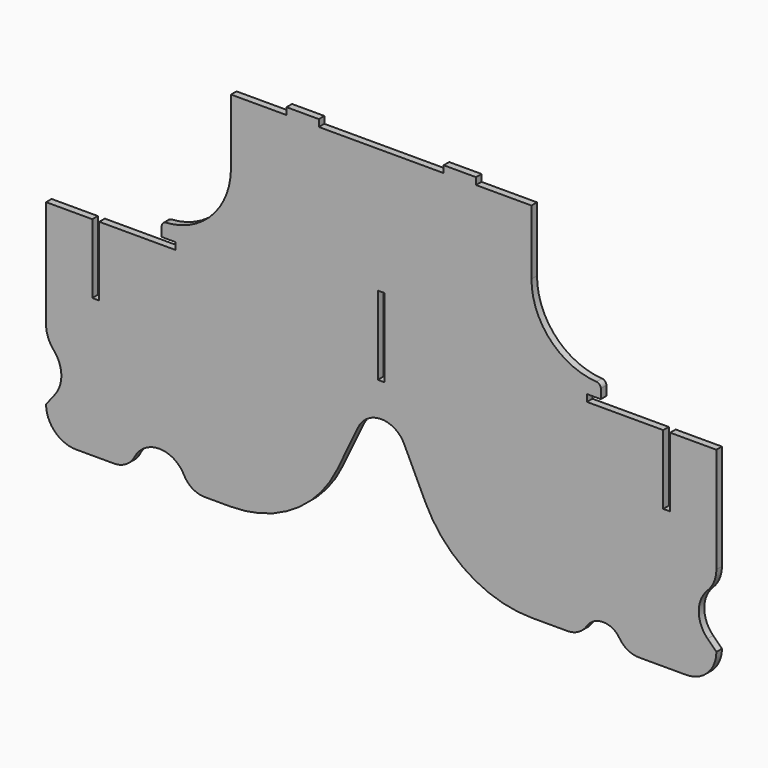
from build123d import *

# Parameters (mm, degrees)
F1_DEPTH = 15


with BuildPart() as f1:
    # F0 (on Front) → F1 (new body)
    with BuildSketch(Plane.XZ):
        with BuildLine():
            Line((-205, 392.5), (-325, 392.5))
            Line((-325, 392.5), (-325, 312.5))
            Line((-325, 312.5), (-325, 257.5))
            Line((-325, 257.5), (-325, 252.5))
            ThreePointArc((-325, 252.5), (-365.669652, 149.80202), (-465.625, 102.793255))
            ThreePointArc((-465.625, 102.793255), (-472.28869, 99.659338), (-475, 92.812806))
            Line((-475, 92.812806), (-475, 72.5))
            Line((-475, 72.5), (-445, 72.5))
            Line((-445, 72.5), (-445, 57.5))
            Line((-445, 57.5), (-610, 57.5))
            Line((-610, 57.5), (-610, -92.5))
            Line((-610, -92.5), (-625, -92.5))
            Line((-625, -92.5), (-625, 57.5))
            Line((-625, 57.5), (-725, 57.5))
            Line((-725, 57.5), (-725, -175.392073))
            ThreePointArc((-725, -175.392073), (-721.537941, -196.322478), (-711.520559, -215.023273))
            Line((-711.520559, -215.023273), (-705.485538, -222.868801))
            ThreePointArc((-705.485538, -222.868801), (-692.006097, -262.5), (-705.485538, -302.131199))
            Line((-705.485538, -302.131199), (-725, -327.5))
            ThreePointArc((-725, -327.5), (-705.961941, -373.461941), (-660, -392.5))
            Line((-660, -392.5), (-577.97959, -392.5))
            ThreePointArc((-577.97959, -392.5), (-551.867941, -385.140143), (-533.443413, -365.227273))
            ThreePointArc((-533.443413, -365.227273), (-480, -332.5), (-426.556587, -365.227273))
            ThreePointArc((-426.556587, -365.227273), (-408.132059, -385.140143), (-382.02041, -392.5))
            Line((-382.02041, -392.5), (-325.706517, -392.5))
            ThreePointArc((-325.706517, -392.5), (-189.747688, -353.231771), (-95.66229, -247.521152))
            Line((-95.66229, -247.521152), (-49.617382, -151.245435))
            ThreePointArc((-49.617382, -151.245435), (-29.324453, -128.445106), (0, -119.975488))
            ThreePointArc((0, -119.975488), (29.324453, -128.445106), (49.617382, -151.245435))
            Line((49.617382, -151.245435), (95.66229, -247.521152))
            ThreePointArc((95.66229, -247.521152), (189.747688, -353.231771), (325.706517, -392.5))
            Line((325.706517, -392.5), (402.540333, -392.5))
            ThreePointArc((402.540333, -392.5), (426.458785, -386.407946), (444.548736, -369.616307))
            ThreePointArc((444.548736, -369.616307), (480, -350.304555), (515.451264, -369.616307))
            ThreePointArc((515.451264, -369.616307), (533.541215, -386.407946), (557.459667, -392.5))
            Line((557.459667, -392.5), (660, -392.5))
            ThreePointArc((660, -392.5), (705.961941, -373.461941), (725, -327.5))
            Line((725, -327.5), (705.961941, -308.461941))
            ThreePointArc((705.961941, -308.461941), (686.923882, -262.5), (705.961941, -216.538059))
            ThreePointArc((705.961941, -216.538059), (720.05217, -195.450542), (725, -170.576118))
            Line((725, -170.576118), (725, 57.5))
            Line((725, 57.5), (625, 57.5))
            Line((625, 57.5), (625, -92.5))
            Line((625, -92.5), (610, -92.5))
            Line((610, -92.5), (610, 57.5))
            Line((610, 57.5), (445, 57.5))
            Line((445, 57.5), (445, 72.5))
            Line((445, 72.5), (475, 72.5))
            Line((475, 72.5), (475, 92.812806))
            ThreePointArc((475, 92.812806), (472.28869, 99.659338), (465.625, 102.793255))
            ThreePointArc((465.625, 102.793255), (365.669652, 149.80202), (325, 252.5))
            Line((325, 252.5), (325, 257.5))
            Line((325, 257.5), (325, 312.5))
            Line((325, 312.5), (325, 392.5))
            Line((325, 392.5), (205, 392.5))
            Line((205, 392.5), (205, 407.5))
            Line((205, 407.5), (135, 407.5))
            Line((135, 407.5), (135, 392.5))
            Line((135, 392.5), (-135, 392.5))
            Line((-135, 392.5), (-135, 407.5))
            Line((-135, 407.5), (-205, 407.5))
            Line((-205, 407.5), (-205, 392.5))
        make_face()
        Polygon((7.5, -47.5), (0, -47.5), (-7.5, -47.5), (-7.5, 122.5), (7.5, 122.5), align=None, mode=Mode.SUBTRACT)
    extrude(amount=F1_DEPTH)


solid = f1.part
